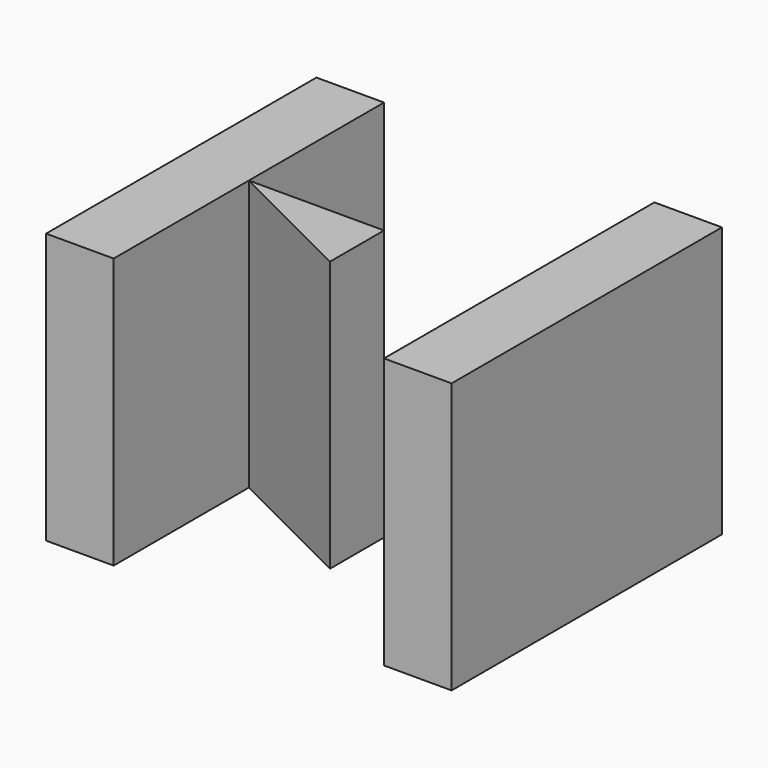
from build123d import *

# Parameters (mm, degrees)
F0_W     = 10
F0_H     = 15
F0_H_2   = 25
F0_H_3   = 10
F1_DEPTH = 40


with BuildPart() as f1:
    # F0 (on Top) → F1 (new body)
    with BuildSketch(Plane.XY):
        with Locations((5, 7.5)):
            Rectangle(F0_W, F0_H)
        with Locations((5, 37.5)):
            Rectangle(F0_W, F0_H_2)
        with Locations((5, 20)):
            Rectangle(F0_W, F0_H_3)
        with Locations((55, 37.5)):
            Rectangle(F0_W, F0_H_2)
        with Locations((55, 7.5)):
            Rectangle(F0_W, F0_H)
        with Locations((55, 20)):
            Rectangle(F0_W, F0_H_3)
        Polygon((30, 25), (10, 25), (30, 15), align=None)
    extrude(amount=-F1_DEPTH)


solid = f1.part
